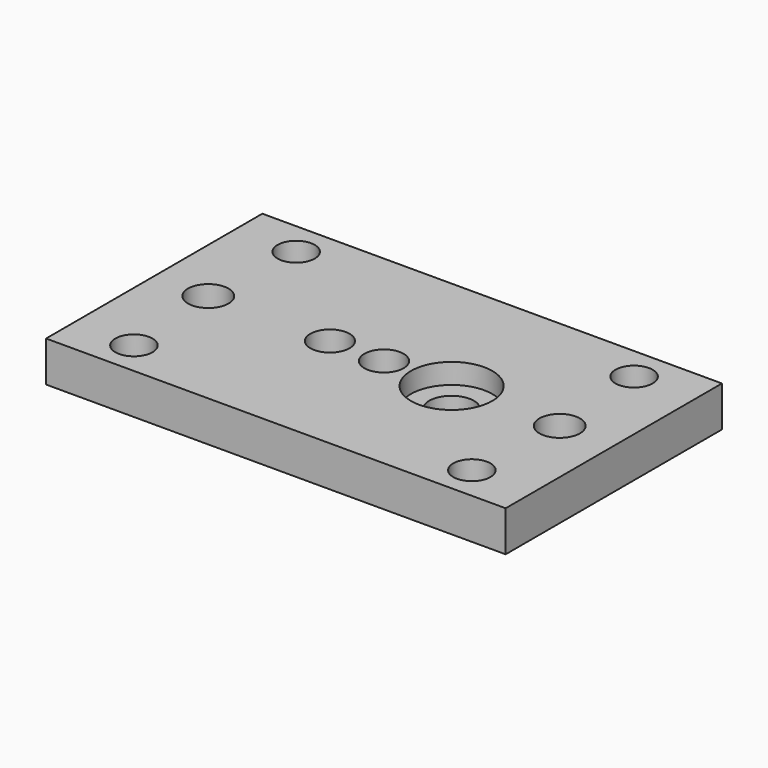
from build123d import *

# Parameters (mm, degrees)
F0_W           = 170
F0_H           = 100
F1_DEPTH       = 15
F3_D           = 8.5
F3_CBORE_D     = 13.75
F3_CBORE_DEPTH = 10
F5_D           = 15
F7_D           = 14.5
F9_D           = 16.5
F9_CBORE_D     = 30.1
F9_CBORE_DEPTH = 7.5


with BuildPart() as f1:
    # F0 (on Top) → F1 (new body)
    with BuildSketch(Plane.XY):
        with Locations((85, 50)):
            Rectangle(F0_W, F0_H)
    extrude(amount=-F1_DEPTH)

    # F3 (through all)
    with Locations(Plane.XY):
        with Locations((22.5, 87.5), (22.5, 12.5), (147.5, 87.5), (147.5, 12.5)):
            CounterBoreHole(F3_D / 2, F3_CBORE_D / 2, F3_CBORE_DEPTH)

    # F5 (through all)
    with Locations(Plane.XY):
        with Locations((20, 50), (150, 50)):
            Hole(F5_D / 2)

    # F7 (through all)
    with Locations(Plane.XY):
        with Locations((65, 50), (85, 50)):
            Hole(F7_D / 2)

    # F9 (through all)
    with Locations(Plane.XY):
        with Locations((110, 50)):
            CounterBoreHole(F9_D / 2, F9_CBORE_D / 2, F9_CBORE_DEPTH)


solid = f1.part
